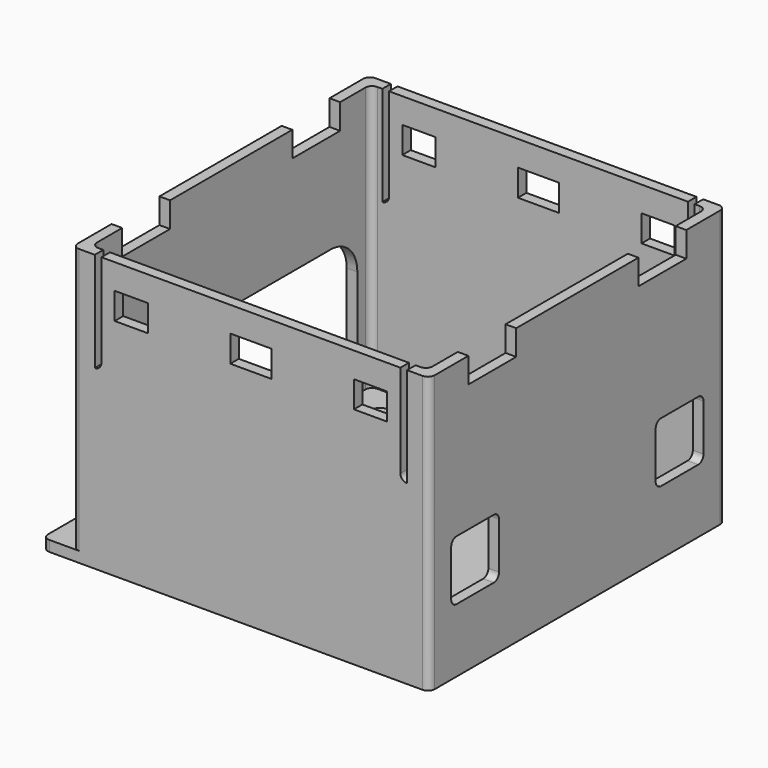
from build123d import *

# Parameters (mm, degrees)
SKETCH021_W          = 58.2
SKETCH021_H          = 55.7
SKETCH021_R          = 1.75
PAD007_DEPTH         = 1.6
SKETCH028_W          = 53.7
SKETCH028_H          = 55.7
SKETCH028_W_2        = 50.5
SKETCH028_H_2        = 52.5
PAD008_DEPTH         = 40
FILLET003_R          = 1
SKETCH026_W          = 6.2
SKETCH026_H          = 4
SKETCH026_W_2        = 5
POCKET005_DEPTH      = 27.851
POCKET005_DEPTH_BACK = 27.851
SKETCH023_W          = 9
SKETCH023_H          = 3.8
POCKET006_DEPTH      = 31.351
SKETCH062_W          = 9
SKETCH062_H          = 3.8
POCKET021_DEPTH      = 26.851
SKETCH024_R          = 3.2
PAD006_DEPTH         = 3
SKETCH038_R          = 1.75
POCKET010_DEPTH      = 4.601


with BuildPart() as part:
    # Sketch021 → Pad007 (new body)
    with BuildSketch(Plane.XY):
        with Locations((-2.25, 0)):
            Rectangle(SKETCH021_W, SKETCH021_H)
        with Locations((19.652, 0)):
            Circle(SKETCH021_R, mode=Mode.SUBTRACT)
    extrude(amount=PAD007_DEPTH)

    # Sketch028 → Pad008 (join)
    with BuildSketch(Plane.XY.offset(1.6)):
        Rectangle(SKETCH028_W, SKETCH028_H)
        Rectangle(SKETCH028_W_2, SKETCH028_H_2, mode=Mode.SUBTRACT)
    extrude(amount=PAD008_DEPTH)

    # Fillet003
    fillet003_edges = [part.edges().sort_by_distance(p)[0] for p in [
        (-31.35, -27.85, 0.8),
        (-26.85, 27.85, 21.6),
        (-25.25, 26.25, 21.6),
        (26.85, 27.85, 20.8),
        (25.25, 26.25, 21.6),
        (26.85, -27.85, 20.8),
        (25.25, -26.25, 21.6),
        (-26.85, -27.85, 21.6),
        (-25.25, -26.25, 21.6),
        (-31.35, 27.85, 0.8),
    ]]
    fillet(fillet003_edges, radius=FILLET003_R)

    # Sketch026 → Pocket005 (cut, two sides)
    with BuildSketch(Plane.XZ) as pocket005_sk:
        with Locations((0, 35.8)):
            Rectangle(SKETCH026_W, SKETCH026_H)
        with Locations((-18, 35.8)):
            Rectangle(SKETCH026_W_2, SKETCH026_H)
        with Locations((18, 35.8)):
            Rectangle(SKETCH026_W_2, SKETCH026_H)
        with BuildLine():
            Line((22.5, 41.6), (23.5, 41.6))
            Line((23.5, 41.6), (23.5, 26.6))
            ThreePointArc((22.5, 27.6), (22.792893, 26.892893), (23.5, 26.6))
            Line((22.5, 27.6), (22.5, 41.6))
        make_face()
        with BuildLine():
            Line((-23.5, 41.6), (-22.5, 41.6))
            Line((-22.5, 41.6), (-22.5, 27.6))
            ThreePointArc((-23.5, 26.6), (-22.792893, 26.892893), (-22.5, 27.6))
            Line((-23.5, 26.6), (-23.5, 41.6))
        make_face()
    extrude(amount=-POCKET005_DEPTH, mode=Mode.SUBTRACT)
    extrude(pocket005_sk.sketch, amount=POCKET005_DEPTH_BACK, mode=Mode.SUBTRACT)

    # Sketch023 → Pocket006 (cut, through all)
    with BuildSketch(Plane.YZ):
        with Locations((-16, 39.7)):
            Rectangle(SKETCH023_W, SKETCH023_H)
        with Locations((16, 39.7)):
            Rectangle(SKETCH023_W, SKETCH023_H)
        with BuildLine():
            Line((-18.733, 22.8), (18.733, 22.8))
            ThreePointArc((23.733, 17.8), (22.268534, 21.335534), (18.733, 22.8))
            Line((23.733, 1.6), (23.733, 17.8))
            Line((-23.733, 1.6), (23.733, 1.6))
            Line((-23.733, 17.8), (-23.733, 1.6))
            ThreePointArc((-18.733, 22.8), (-22.268534, 21.335534), (-23.733, 17.8))
        make_face()
    extrude(amount=-POCKET006_DEPTH, mode=Mode.SUBTRACT)

    # Sketch062 → Pocket021 (cut, through all)
    with BuildSketch(Plane.YZ):
        with Locations((-16, 39.7)):
            Rectangle(SKETCH062_W, SKETCH062_H)
        with Locations((16, 39.7)):
            Rectangle(SKETCH062_W, SKETCH062_H)
        with BuildLine():
            Line((-23.733, 17.6), (-23.733, 10.6))
            ThreePointArc((-23.733, 10.6), (-23.440107, 9.892893), (-22.733, 9.6))
            Line((-22.733, 9.6), (-15.733, 9.6))
            ThreePointArc((-15.733, 9.6), (-15.025893, 9.892893), (-14.733, 10.6))
            Line((-14.733, 17.6), (-14.733, 10.6))
            ThreePointArc((-14.733, 17.6), (-15.025893, 18.307107), (-15.733, 18.6))
            Line((-22.733, 18.6), (-15.733, 18.6))
            ThreePointArc((-22.733, 18.6), (-23.440107, 18.307107), (-23.733, 17.6))
        make_face()
        with BuildLine():
            Line((22.733, 9.6), (15.733, 9.6))
            ThreePointArc((14.733, 10.6), (15.025893, 9.892893), (15.733, 9.6))
            Line((14.733, 10.6), (14.733, 17.6))
            ThreePointArc((15.733, 18.6), (15.025893, 18.307107), (14.733, 17.6))
            Line((15.733, 18.6), (22.733, 18.6))
            ThreePointArc((23.733, 17.6), (23.440107, 18.307107), (22.733, 18.6))
            Line((23.733, 10.6), (23.733, 17.6))
            ThreePointArc((22.733, 9.6), (23.440107, 9.892893), (23.733, 10.6))
        make_face()
    extrude(amount=POCKET021_DEPTH, mode=Mode.SUBTRACT)

    # Sketch024 → Pad006 (join)
    with BuildSketch(Plane.XY.offset(1.6)):
        with Locations((-15.348, 15.621)):
            Circle(SKETCH024_R)
        with Locations((-28.048, -19.431)):
            Circle(SKETCH024_R)
        with Locations((-15.348, -19.431)):
            Circle(SKETCH024_R)
        with Locations((-28.048, 15.621)):
            Circle(SKETCH024_R)
    extrude(amount=PAD006_DEPTH)

    # Sketch038 → Pocket010 (cut, through all)
    with BuildSketch(Plane.XY.offset(4.6)):
        with Locations((-28.048, 15.621)):
            Circle(SKETCH038_R)
        with Locations((-15.348, 15.621)):
            Circle(SKETCH038_R)
        with Locations((-15.348, -19.431)):
            Circle(SKETCH038_R)
        with Locations((-28.048, -19.431)):
            Circle(SKETCH038_R)
    extrude(amount=-POCKET010_DEPTH, mode=Mode.SUBTRACT)


solid = part.part
